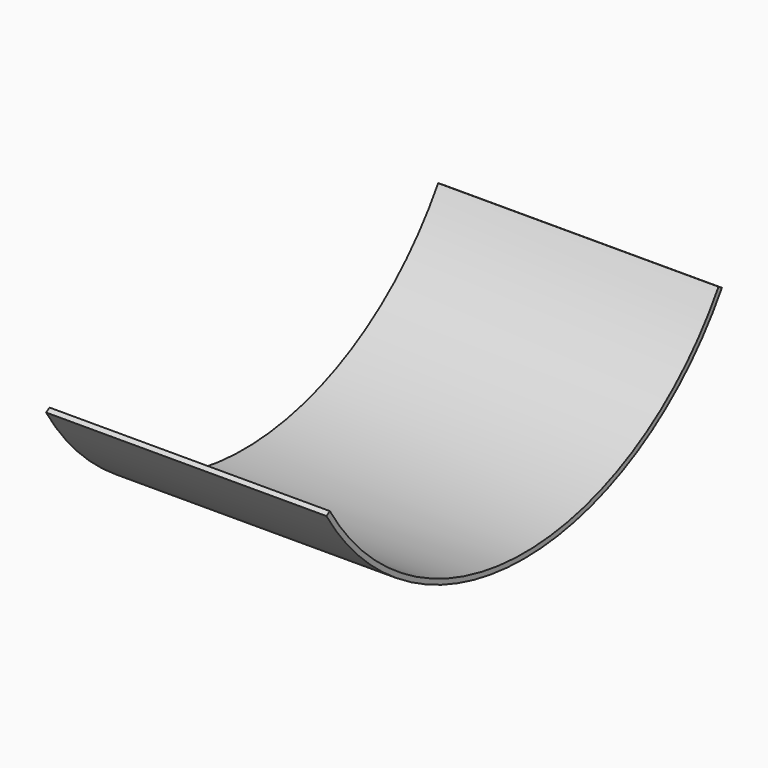
from build123d import *

# Parameters (mm, degrees)
F1_DEPTH = 88.9


with BuildPart() as f1:
    # F0 (on Right) → F1 (new body, symmetric)
    with BuildSketch(Plane.YZ):
        with BuildLine():
            ThreePointArc((-156.777004, -96.603279), (0, -184.15), (156.777004, -96.603279))
            Line((156.777004, -96.603279), (154.073952, -94.937705))
            ThreePointArc((154.073952, -94.937705), (0, -180.975), (-154.073952, -94.937705))
            Line((-154.073952, -94.937705), (-156.777004, -96.603279))
        make_face()
    extrude(amount=F1_DEPTH, both=True)


solid = f1.part
